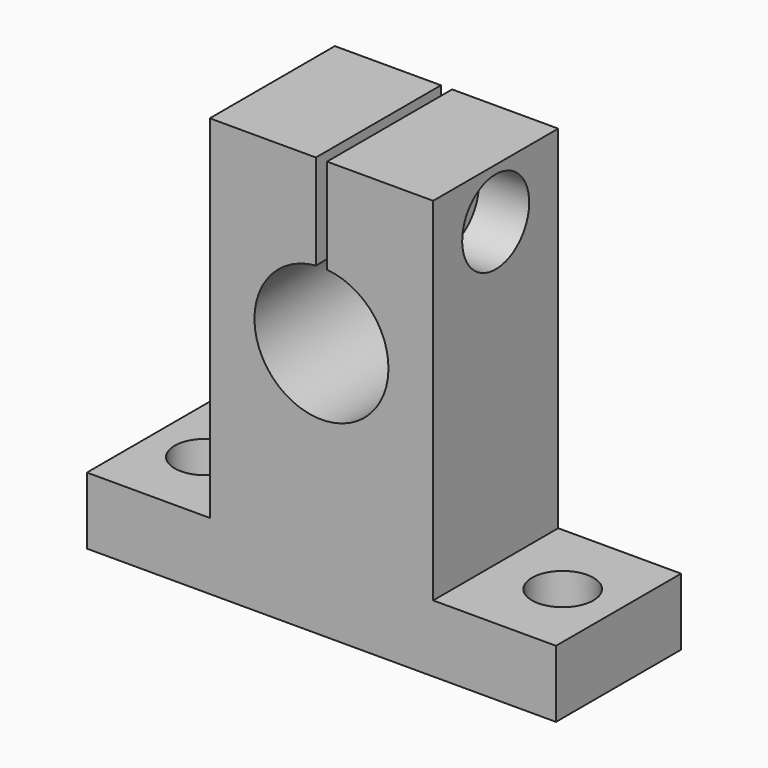
from build123d import *

# Parameters (mm, degrees)
PAD_DEPTH            = 7
SKETCH001_W          = 1
SKETCH001_H          = 24.5
POCKET_DEPTH         = 7.001
POCKET_DEPTH_BACK    = -7.001
SKETCH002_R          = 6
POCKET001_DEPTH      = 7.001
POCKET001_DEPTH_BACK = -7.001
SKETCH003_R          = 2.75
POCKET002_DEPTH      = 0.001
POCKET002_DEPTH_BACK = -37.501
SKETCH004_R          = 2.25
POCKET003_DEPTH      = 21.001
POCKET003_DEPTH_BACK = -21.001
SKETCH005_R          = 3.75
POCKET004_DEPTH      = 4.5


with BuildPart() as part:
    # Sketch → Pad (new body, symmetric)
    with BuildSketch(Plane.XZ):
        Polygon((-21, 0), (21, 0), (21, 6), (10, 6), (10, 37.5), (-10, 37.5), (-10, 6), (-21, 6), align=None)
    extrude(amount=PAD_DEPTH, both=True)

    # Sketch001 → Pocket (cut, two sides)
    with BuildSketch(Plane.XZ) as pocket_sk:
        with Locations((0, 35.25)):
            Rectangle(SKETCH001_W, SKETCH001_H)
    extrude(amount=-POCKET_DEPTH, mode=Mode.SUBTRACT)
    extrude(pocket_sk.sketch, amount=-POCKET_DEPTH_BACK, mode=Mode.SUBTRACT)

    # Sketch002 → Pocket001 (cut, two sides)
    with BuildSketch(Plane.XZ) as pocket001_sk:
        with Locations((0, 23)):
            Circle(SKETCH002_R)
    extrude(amount=-POCKET001_DEPTH, mode=Mode.SUBTRACT)
    extrude(pocket001_sk.sketch, amount=-POCKET001_DEPTH_BACK, mode=Mode.SUBTRACT)

    # Sketch003 → Pocket002 (cut, two sides)
    with BuildSketch(Plane.XY) as pocket002_sk:
        with Locations((-16, 0)):
            Circle(SKETCH003_R)
        with Locations((16, 0)):
            Circle(SKETCH003_R)
    extrude(amount=-POCKET002_DEPTH, mode=Mode.SUBTRACT)
    extrude(pocket002_sk.sketch, amount=-POCKET002_DEPTH_BACK, mode=Mode.SUBTRACT)

    # Sketch004 → Pocket003 (cut, two sides)
    with BuildSketch(Plane.YZ) as pocket003_sk:
        with Locations((0, 33)):
            Circle(SKETCH004_R)
    extrude(amount=-POCKET003_DEPTH, mode=Mode.SUBTRACT)
    extrude(pocket003_sk.sketch, amount=-POCKET003_DEPTH_BACK, mode=Mode.SUBTRACT)

    # Sketch005 (on Face16 of Pocket003) → Pocket004 (cut)
    with BuildSketch(Plane(origin=(10, 0, 0), x_dir=(0, 0, 1), z_dir=(1, 0, 0))):
        with Locations((33, 0)):
            Circle(SKETCH005_R)
    extrude(amount=-POCKET004_DEPTH, mode=Mode.SUBTRACT)


solid = part.part
